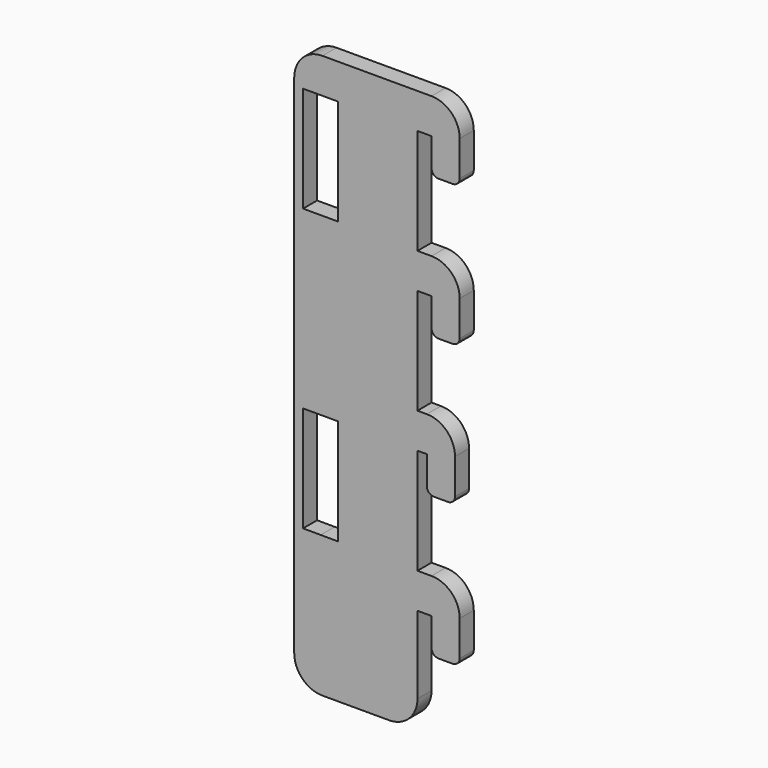
from build123d import *

# Parameters (mm, degrees)
F1_DEPTH = 3.175
F2_R     = 5.08
F3_R     = 5.08
F4_R     = 1.27


with BuildPart() as f1:
    # F0 (on Front) → F1 (new body)
    with BuildSketch(Plane.XZ):
        Polygon((0, 50.585326), (0, 56.935326), (-12.7, 56.935326), (-12.7, -44.664674), (0, -44.664674), (0, -25.614674), (0, -19.264674), (0, -0.192746), (0, 0), (0, 6.135326), (0, 6.157254), (0, 25.185326), (0, 31.535326), align=None)
        Polygon((7.62, 56.935326), (0, 56.935326), (0, 50.585326), (2.54, 50.585326), (2.54, 44.235326), (7.62, 44.235326), align=None)
        Polygon((7.62, 31.535326), (0, 31.535326), (0, 25.185326), (2.54, 25.185326), (2.54, 18.835326), (7.62, 18.835326), align=None)
        Polygon((6.77177, 6.157254), (0, 6.157254), (0, 6.135326), (0, 0), (0, -0.192746), (1.69177, -0.192746), (1.69177, -6.542746), (6.77177, -6.542746), align=None)
        Polygon((0, -19.264674), (0, -25.614674), (2.54, -25.614674), (2.54, -31.964674), (7.62, -31.964674), (7.62, -19.264674), align=None)
        Polygon((-12.7, -44.664674), (-12.7, 56.935326), (-17.4625, 56.935326), (-17.4625, 50.585326), (-14.2875, 50.585326), (-14.2875, 31.535326), (-17.4625, 31.535326), (-17.4625, -0.192746), (-14.2875, -0.192746), (-14.2875, -19.264674), (-17.4625, -19.25371), (-17.4625, -44.664674), align=None)
        Polygon((-17.4625, 50.585326), (-17.4625, 56.935326), (-22.225, 56.935326), (-22.225, -44.664674), (-17.4625, -44.664674), (-17.4625, -19.25371), (-20.637462, -19.242746), (-20.6375, -0.192746), (-17.4625, -0.192746), (-17.4625, 31.535326), (-20.6375, 31.535326), (-20.6375, 50.585326), align=None)
    extrude(amount=F1_DEPTH)

    # F2
    f2_edges = [f1.edges().sort_by_distance(p)[0] for p in [
        (-22.225, -1.5875, 56.935326),
        (-22.225, -1.5875, -44.664674),
        (0, -1.5875, -44.664674),
    ]]
    fillet(f2_edges, radius=F2_R)

    # F3
    f3_edges = [f1.edges().sort_by_distance(p)[0] for p in [
        (7.62, -1.5875, 31.535326),
        (6.77177, -1.5875, 6.157254),
        (7.62, -1.5875, -19.264674),
        (7.62, -1.5875, 56.935326),
    ]]
    fillet(f3_edges, radius=F3_R)

    # F4
    f4_edges = [f1.edges().sort_by_distance(p)[0] for p in [
        (7.62, -1.5875, 18.835326),
        (2.54, -1.5875, 18.835326),
        (6.77177, -1.5875, -6.542746),
        (1.69177, -1.5875, -6.542746),
        (2.54, -1.5875, 44.235326),
        (7.62, -1.5875, 44.235326),
        (7.62, -1.5875, -31.964674),
        (2.54, -1.5875, -31.964674),
    ]]
    fillet(f4_edges, radius=F4_R)


solid = f1.part
